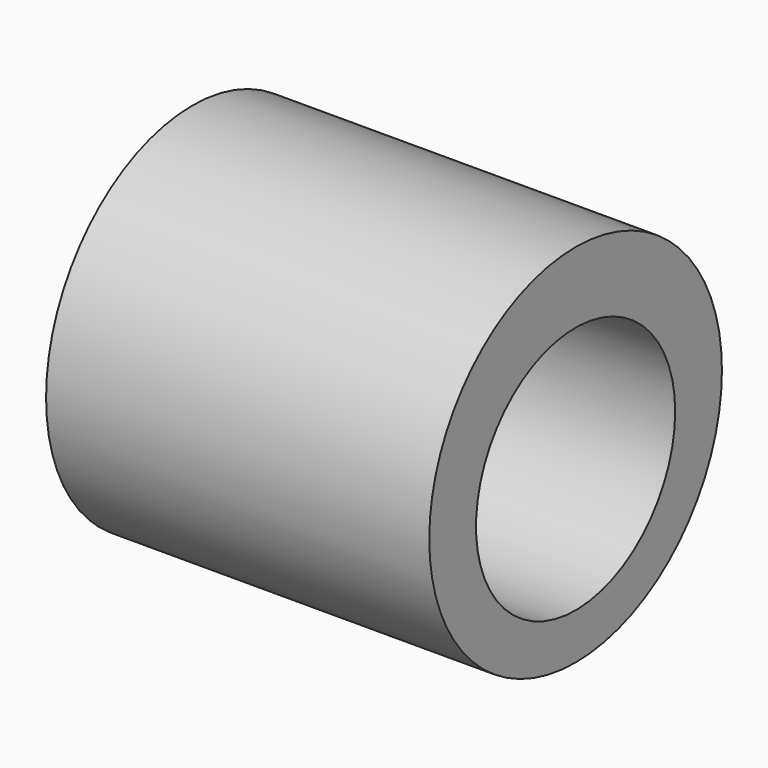
from build123d import *

# Parameters (mm, degrees)
F0_R     = 37.585156
F0_R_2   = 25.573195
F1_DEPTH = 78.74


with BuildPart() as f1:
    # F0 (on Right) → F1 (new body)
    with BuildSketch(Plane.YZ):
        Circle(F0_R)
        with Locations((0, -2.571862)):
            Circle(F0_R_2, mode=Mode.SUBTRACT)
    extrude(amount=-F1_DEPTH)


solid = f1.part
